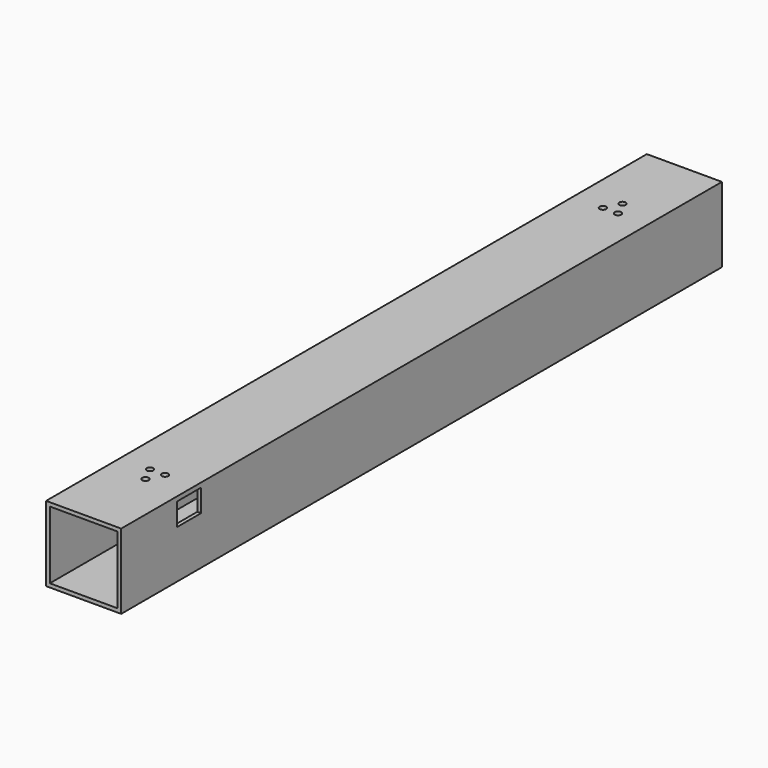
from build123d import *

# Parameters (mm, degrees)
F0_W     = 100
F0_H     = 100
F0_W_2   = 90
F0_H_2   = 90
F1_DEPTH = 1000
F2_W     = 40
F2_H     = 30
F3_DEPTH = 5
F4_W     = 40
F4_H     = 30
F5_DEPTH = 5
F7_D     = 8.8
F7_DEPTH = 5
F7_TIP   = 2.6437867237


with BuildPart() as f1:
    # F0 (on Front) → F1 (new body)
    with BuildSketch(Plane.XZ):
        with Locations((50, 50)):
            Rectangle(F0_W, F0_H)
        with Locations((50, 50)):
            Rectangle(F0_W_2, F0_H_2, mode=Mode.SUBTRACT)
    extrude(amount=F1_DEPTH)

    # F2 (on face) → F3 (cut)
    with BuildSketch(Plane.YZ.offset(100)):
        with Locations((-887, 79)):
            Rectangle(F2_W, F2_H)
    extrude(amount=-F3_DEPTH, mode=Mode.SUBTRACT)

    # F4 (on face) → F5 (cut)
    with BuildSketch(Plane(origin=(0, 0, 0), x_dir=(0, -1, 0), z_dir=(-1, 0, 0))):
        with Locations((113, 79)):
            Rectangle(F4_W, F4_H)
    extrude(amount=-F5_DEPTH, mode=Mode.SUBTRACT)

    # F7
    with Locations(Plane.XY.offset(100)):
        with Locations((50, -103), (40, -123), (60, -123), (40, -877), (60, -877), (50, -897)):
            Hole(F7_D / 2, depth=F7_DEPTH)
            with Locations((0, 0, -(F7_DEPTH + F7_TIP / 2))):  # 118° drill point
                Cone(0, F7_D / 2, F7_TIP, mode=Mode.SUBTRACT)


solid = f1.part
